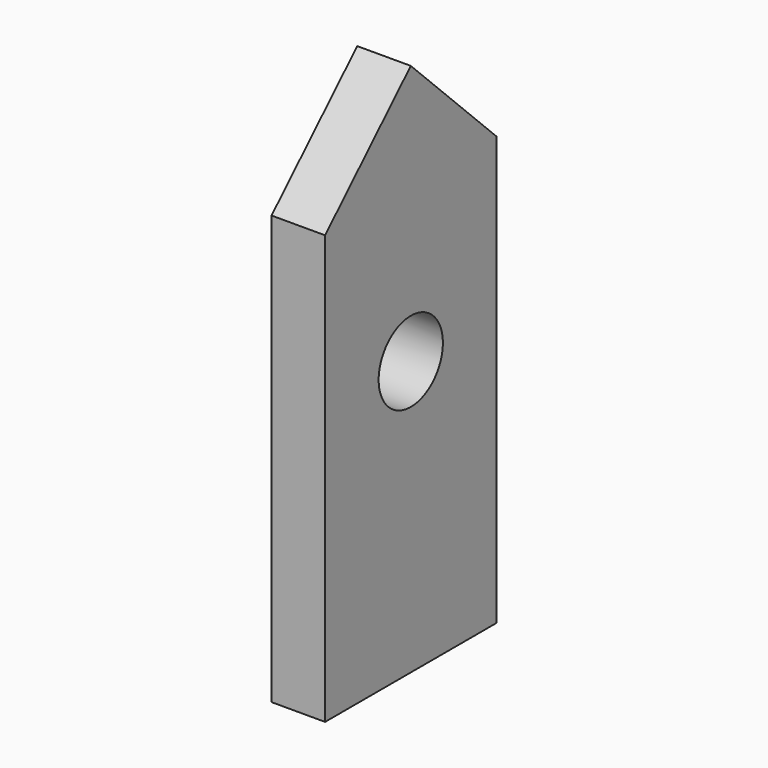
from build123d import *

# Parameters (mm, degrees)
F0_R     = 19.05
F1_DEPTH = 25.4


with BuildPart() as f1:
    # F0 (on Right) → F1 (new body)
    with BuildSketch(Plane.YZ):
        Polygon((0, 151.703238), (-50.8, 101.6), (50.796479, 101.6), (50.796479, 101.603473), align=None)
        Polygon((-50.8, -101.6), (50.8, -101.6), (50.8, 101.6), (50.796479, 101.6), (-50.8, 101.6), align=None)
        with Locations((0, 28.313851)):
            Circle(F0_R, mode=Mode.SUBTRACT)
    extrude(amount=F1_DEPTH)


solid = f1.part
